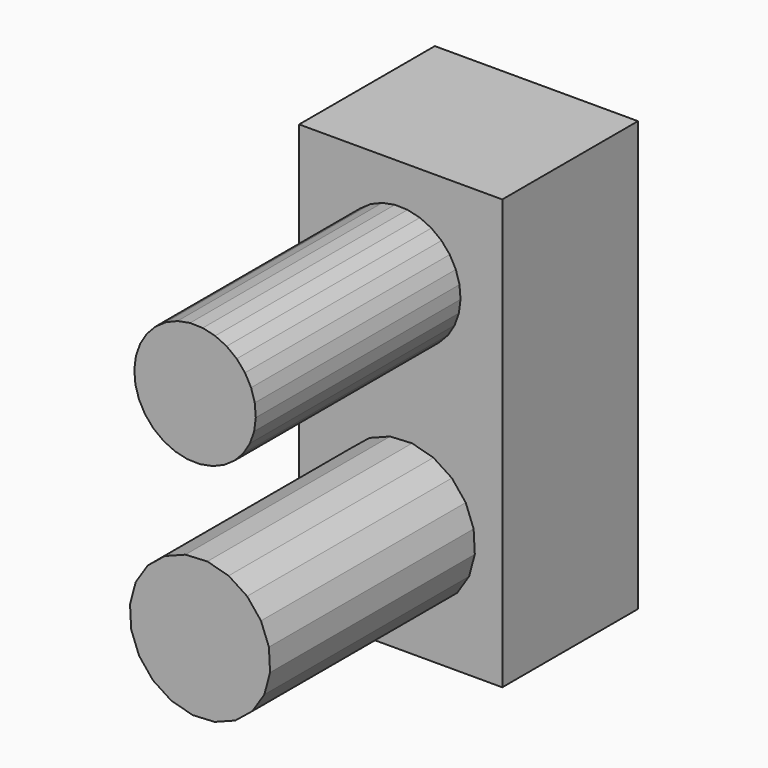
from build123d import *

# Parameters (mm, degrees)
F0_W     = 60.493108
F0_H     = 50.502148
F1_DEPTH = 127.8868
F3_DEPTH = 76.2


with BuildPart() as f1:
    # F0 (on Top) → F1 (new body)
    with BuildSketch(Plane.XY):
        with Locations((30.246554, 25.251074)):
            Rectangle(F0_W, F0_H)
    extrude(amount=F1_DEPTH)

    # F2 (on face) → F3 (join)
    with BuildSketch(Plane.XZ):
        Polygon((35.168027, 80.730942), (38.657124, 82.189071), (41.766813, 84.34076), (44.361187, 87.091971), (46.326859, 90.322462), (47.57792, 93.891045), (48.059691, 97.641756), (47.751118, 101.410671), (46.665687, 105.03307), (44.850836, 108.350637), (42.385883, 111.218379), (39.378557, 113.510961), (35.960295, 115.128186), (32.28049, 115.999375), (28.499966, 116.086451), (24.783953, 115.38561), (21.294856, 113.927481), (18.185166, 111.775791), (15.590792, 109.024581), (13.62512, 105.79409), (12.37406, 102.225507), (11.892288, 98.474796), (12.200861, 94.705881), (13.286293, 91.083482), (15.101144, 87.765915), (17.566097, 84.898173), (20.573422, 82.605591), (23.991685, 80.988365), (27.67149, 80.117177), (31.452013, 80.030101), align=None)
        Polygon((35.833944, 13.889787), (41.954983, 16.244033), (47.048936, 20.374559), (50.617169, 25.877041), (52.310401, 32.212857), (51.962885, 38.761813), (49.608639, 44.882853), (45.478113, 49.976805), (39.975631, 53.545039), (33.639815, 55.238271), (27.090859, 54.890755), (20.969819, 52.536509), (15.875867, 48.405983), (12.307633, 42.903501), (10.614401, 36.567685), (10.961917, 30.018728), (13.316163, 23.897689), (17.446689, 18.803736), (22.949171, 15.235502), (29.284987, 13.542271), align=None)
    extrude(amount=F3_DEPTH)


solid = f1.part
